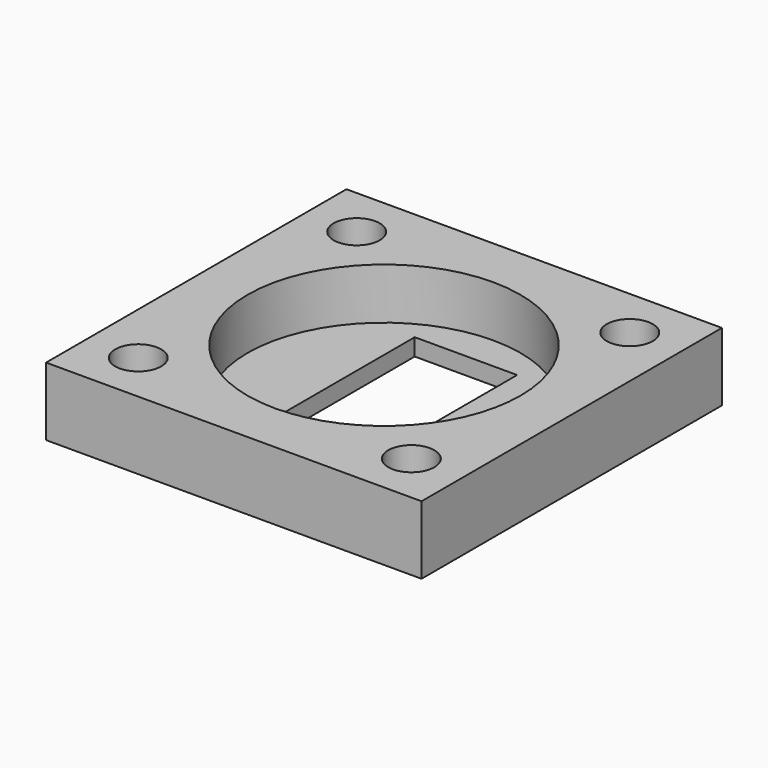
from build123d import *

# Parameters (mm, degrees)
F0_W     = 22
F0_H     = 22
F1_DEPTH = 4
F3_R     = 1.35
F4_DEPTH = 4.001
F5_W     = 6
F5_H     = 12
F6_DEPTH = 4.001
F5_R     = 8
F7_DEPTH = 3


with BuildPart() as f1:
    # F0 (on Top) → F1 (new body)
    with BuildSketch(Plane.XY):
        with Locations((11, 11)):
            Rectangle(F0_W, F0_H)
    extrude(amount=F1_DEPTH)

    # F3 (on face) → F4 (cut, through all)
    with BuildSketch(Plane.XY.offset(4)):
        with Locations((3, 3)):
            Circle(F3_R)
        with Locations((3, 19)):
            Circle(F3_R)
        with Locations((19, 3)):
            Circle(F3_R)
        with Locations((19, 19)):
            Circle(F3_R)
    extrude(amount=-F4_DEPTH, mode=Mode.SUBTRACT)

    # F5 (on face) → F6 (cut, through all)
    with BuildSketch(Plane.XY.offset(4)):
        with Locations((11, 11)):
            Rectangle(F5_W, F5_H)
    extrude(amount=-F6_DEPTH, mode=Mode.SUBTRACT)

    # F5 (on face) → F7 (cut, through all)
    with BuildSketch(Plane.XY.offset(4)):
        with Locations((11, 11)):
            Circle(F5_R)
        with Locations((11, 11)):
            Rectangle(F5_W, F5_H, mode=Mode.SUBTRACT)
    extrude(amount=-F7_DEPTH, mode=Mode.SUBTRACT)


solid = f1.part
